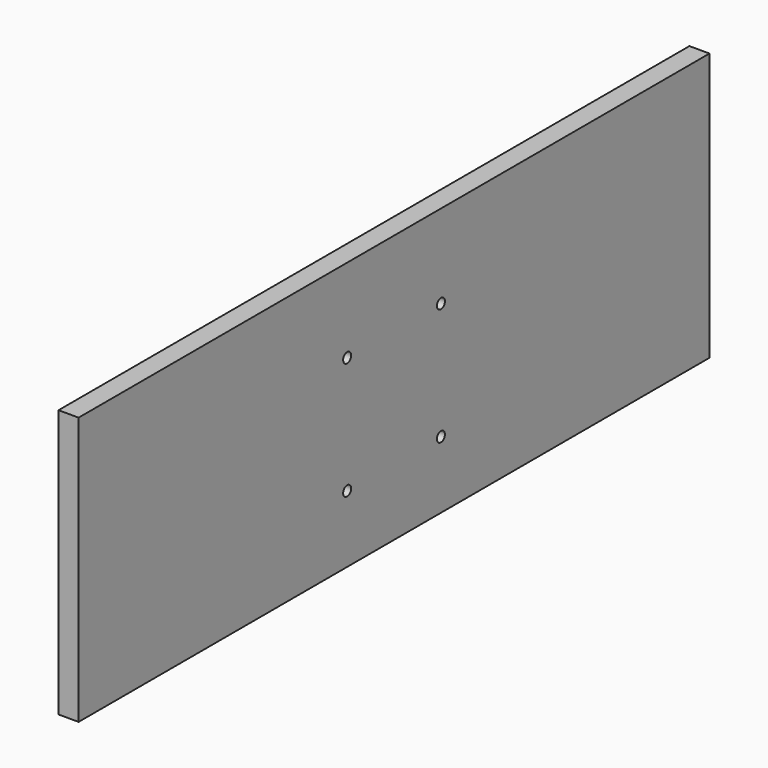
from build123d import *

# Parameters (mm, degrees)
SKETCH_W  = 471
SKETCH_H  = 160
SKETCH_R  = 3
PAD_DEPTH = 12


with BuildPart() as part:
    # Sketch → Pad (new body)
    with BuildSketch(Plane.YZ):
        with Locations((0, 38.337483)):
            Rectangle(SKETCH_W, SKETCH_H)
        with Locations((35, 68.337483)):
            Circle(SKETCH_R, mode=Mode.SUBTRACT)
        with Locations((35, -1.662517)):
            Circle(SKETCH_R, mode=Mode.SUBTRACT)
        with Locations((-35, -1.662517)):
            Circle(SKETCH_R, mode=Mode.SUBTRACT)
        with Locations((-35, 68.337483)):
            Circle(SKETCH_R, mode=Mode.SUBTRACT)
    extrude(amount=PAD_DEPTH)


solid = part.part
